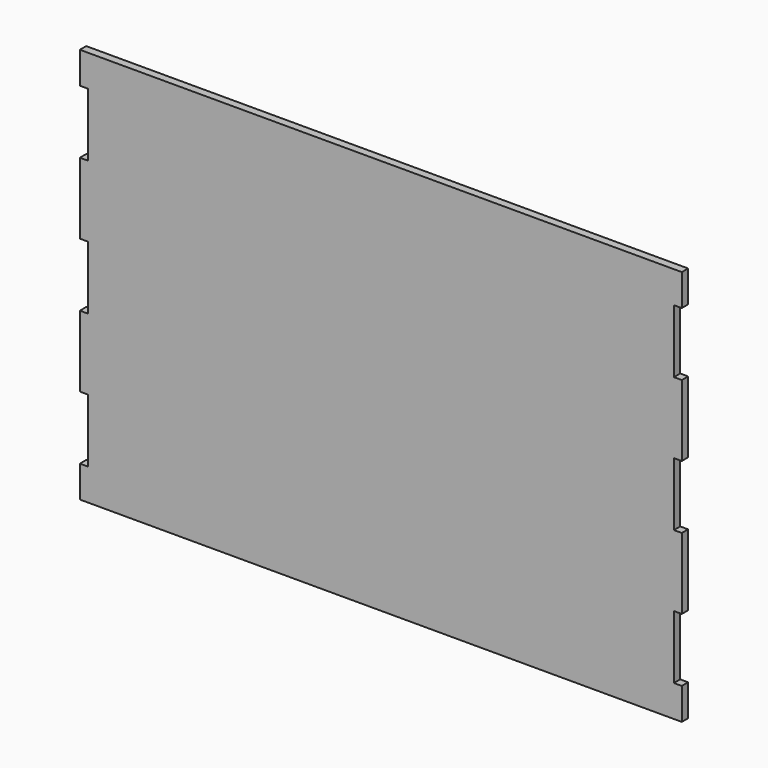
from build123d import *

# Parameters (mm, degrees)
F1_DEPTH = 3.175


with BuildPart() as f1:
    # F0 (on Front) → F1 (new body)
    with BuildSketch(Plane.XZ):
        Polygon((-120.65, -79.375), (120.65, -79.375), (120.65, -66.675), (117.475, -66.675), (117.475, -41.275), (120.65, -41.275), (120.65, -12.7), (117.475, -12.7), (117.475, 0), (117.475, 12.7), (120.65, 12.7), (120.65, 41.275), (117.475, 41.275), (117.475, 66.675), (120.65, 66.675), (120.65, 79.375), (-120.65, 79.375), (-120.65, 66.675), (-117.475, 66.675), (-117.475, 41.275), (-120.65, 41.275), (-120.65, 12.7), (-117.475, 12.7), (-117.475, 0), (-117.475, -12.7), (-120.65, -12.7), (-120.65, -41.275), (-117.475, -41.275), (-117.475, -66.675), (-120.65, -66.675), align=None)
    extrude(amount=F1_DEPTH)


solid = f1.part
